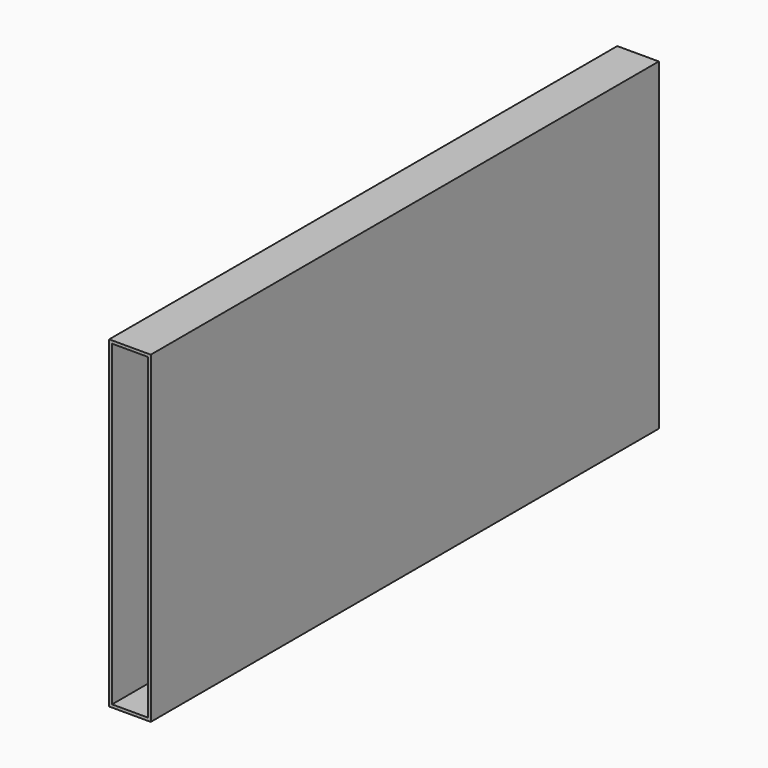
from build123d import *

# Parameters (mm, degrees)
F0_W     = 110
F0_H     = 56
F1_DEPTH = 3.6
F2_T     = -0.5


with BuildPart() as f1:
    # F0 (on Right) → F1 (new body, symmetric)
    with BuildSketch(Plane.YZ):
        Rectangle(F0_W, F0_H)
    extrude(amount=F1_DEPTH, both=True)

    # F2
    f2_openings = [f1.faces().sort_by_distance(p)[0] for p in [
        (0, -55, 0),
    ]]
    offset(amount=F2_T, openings=f2_openings)


solid = f1.part
